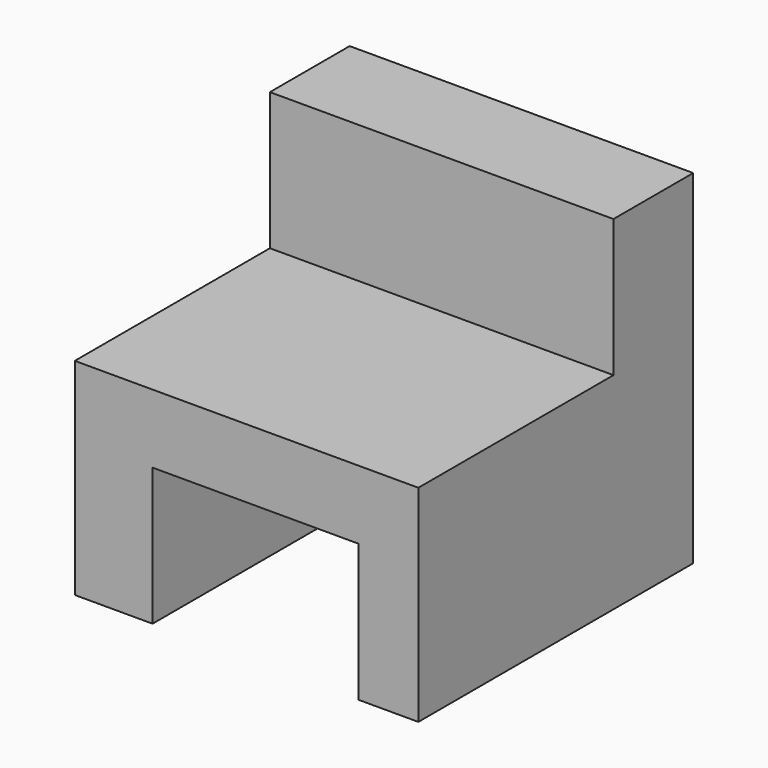
from build123d import *

# Parameters (mm, degrees)
F0_W     = 100
F0_H     = 100
F1_DEPTH = 100
F2_W     = 100
F2_H     = 70.984376
F3_DEPTH = 40
F4_W     = 60
F4_H     = 40
F5_DEPTH = 100


with BuildPart() as f1:
    # F0 (on Top) → F1 (new body)
    with BuildSketch(Plane.XY):
        Rectangle(F0_W, F0_H)
    extrude(amount=F1_DEPTH)

    # F2 (on face) → F3 (cut)
    with BuildSketch(Plane.XY.offset(100)):
        with Locations((0, -14.507812)):
            Rectangle(F2_W, F2_H)
    extrude(amount=-F3_DEPTH, mode=Mode.SUBTRACT)

    # F4 (on face) → F5 (cut)
    with BuildSketch(Plane.XZ.offset(50)):
        with Locations((2.63708, 20)):
            Rectangle(F4_W, F4_H)
    extrude(amount=-F5_DEPTH, mode=Mode.SUBTRACT)


solid = f1.part
